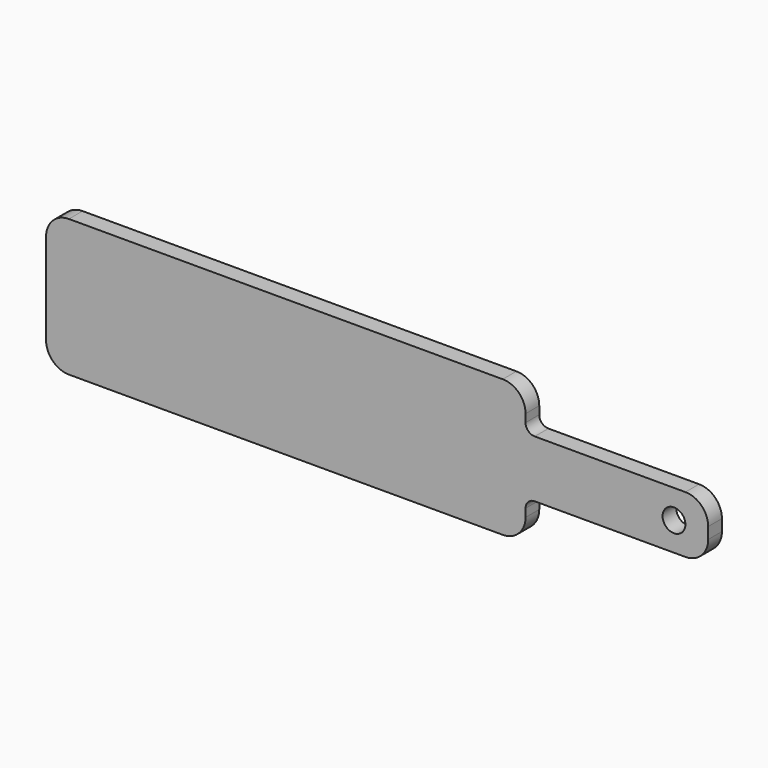
from build123d import *

# Parameters (mm, degrees)
F0_R     = 26.9875
F1_DEPTH = 9.525
F2_DEPTH = 4.7625
F3_R     = 12.7
F4_R     = 6.35
F5_DEPTH = 9.526
F6_R     = 5.08


with BuildPart() as f1:
    # F0 (on Front) → F1 (new body)
    with BuildSketch(Plane.XZ):
        Polygon((0, 76.2), (0, 0), (266.7, 0), (266.7, 22.225), (368.3, 22.225), (368.3, 53.975), (266.7, 53.975), (266.7, 76.2), align=None)
        with Locations((34.925, 38.1)):
            Circle(F0_R, mode=Mode.SUBTRACT)
        with Locations((98.425, 38.1)):
            Circle(F0_R, mode=Mode.SUBTRACT)
        with Locations((161.925, 38.1)):
            Circle(F0_R, mode=Mode.SUBTRACT)
        with Locations((225.425, 38.1)):
            Circle(F0_R, mode=Mode.SUBTRACT)
        with Locations((34.925, 38.1)):
            Circle(F0_R)
        with Locations((98.425, 38.1)):
            Circle(F0_R)
        with Locations((161.925, 38.1)):
            Circle(F0_R)
        with Locations((225.425, 38.1)):
            Circle(F0_R)
    extrude(amount=F1_DEPTH)

    # F0 (on Front) → F2 (cut)
    with BuildSketch(Plane.XZ):
        with Locations((225.425, 38.1)):
            Circle(F0_R)
        with Locations((161.925, 38.1)):
            Circle(F0_R)
        with Locations((98.425, 38.1)):
            Circle(F0_R)
        with Locations((34.925, 38.1)):
            Circle(F0_R)
    extrude(amount=F2_DEPTH, mode=Mode.SUBTRACT)

    # F3
    f3_edges = [f1.edges().sort_by_distance(p)[0] for p in [
        (0, -4.7625, 76.2),
        (0, -4.7625, 0),
        (266.7, -4.7625, 76.2),
        (266.7, -4.7625, 0),
        (368.3, -4.7625, 53.975),
        (368.3, -4.7625, 22.225),
    ]]
    fillet(f3_edges, radius=F3_R)

    # F4 (on face) → F5 (cut, through all)
    with BuildSketch(Plane(origin=(0, 0, 0), x_dir=(-1, 0, 0), z_dir=(0, 1, 0))):
        with Locations((-349.25, 38.1)):
            Circle(F4_R)
    extrude(amount=-F5_DEPTH, mode=Mode.SUBTRACT)

    # F6
    f6_edges = [f1.edges().sort_by_distance(p)[0] for p in [
        (266.7, -4.7625, 53.975),
        (266.7, -4.7625, 22.225),
    ]]
    fillet(f6_edges, radius=F6_R)


solid = f1.part
